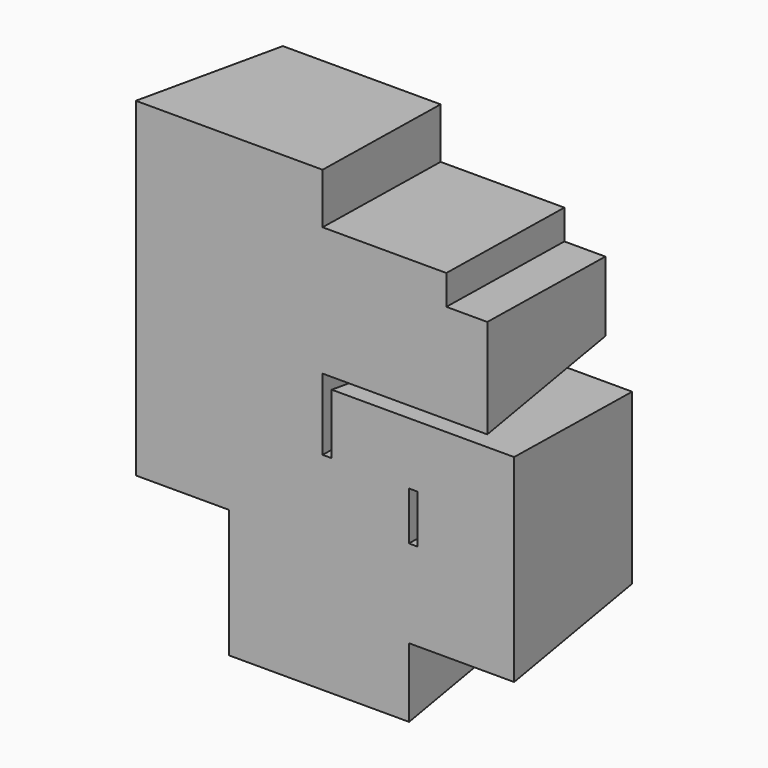
from build123d import *

# Parameters (mm, degrees)
F0_W     = 12.8154978156
F0_H     = 9.8903924227
F0_W_2   = 24.5318338275
F0_H_2   = 5.9047192335
F1_DEPTH = 32.8371524811
F1_TAPER = -5


with BuildPart() as f1:
    # F0 (on Front) → F1 (new body)
    with BuildSketch(Plane.XZ):
        with Locations((-30.9395827353, 4.9451962113)):
            Rectangle(F0_W, F0_H)
        Polygon((-7.419615984, 0), (-7.419615984, 9.8903924227), (-16.976043582, 9.8903924227), (-16.976043582, -11.6618275642), (-7.380887866, -11.6618275642), (-7.380887866, 0), align=None)
        Polygon((-24.5318338275, 37.7901867032), (-24.5318338275, 29.8188216984), (8.1190019846, 29.8188216984), (8.1190019846, 43.6949059367), (0, 43.6949059367), (0, 37.7901867032), align=None)
        with Locations((-12.2659169137, 40.74254632)):
            Rectangle(F0_W_2, F0_H_2)
        with Locations((-12.2659169137, 46.6472655535)):
            Rectangle(F0_W_2, F0_H_2)
        Polygon((-7.419615984, 15.3419598937), (0, 15.3419598937), (0, 0), (-7.380887866, 0), (-7.380887866, -11.6618275642), (13.4332478046, -11.6618275642), (13.4332478046, 21.8474492431), (-16.976043582, 21.8474492431), (-16.976043582, 9.8903924227), (-7.419615984, 9.8903924227), align=None)
        Polygon((-16.976043582, -11.6618275642), (-16.976043582, 9.8903924227), (-24.5318338275, 9.8903924227), (-24.5318338275, 0), (-37.3473316431, 0), (-37.3473316431, -25.3902971745), (-7.380887866, -25.3902971745), (-7.380887866, -11.6618275642), align=None)
        Polygon((-35.7235372066, 29.8188216984), (-24.5318338275, 29.8188216984), (-24.5318338275, 37.7901867032), (-24.5318338275, 43.6949059367), (-35.7235372066, 43.6949059367), align=None)
        Polygon((-37.3473316431, 9.8903924227), (-24.5318338275, 9.8903924227), (-24.5318338275, 29.8188216984), (-35.7235372066, 29.8188216984), (-35.7235372066, 43.6949059367), (-24.5318338275, 43.6949059367), (-24.5318338275, 49.5996251702), (-24.5318338275, 59.6376433969), (-55.7995736599, 59.6376433969), (-55.7995736599, 0), (-37.3473316431, 0), align=None)
    extrude(amount=F1_DEPTH, taper=F1_TAPER)


solid = f1.part
